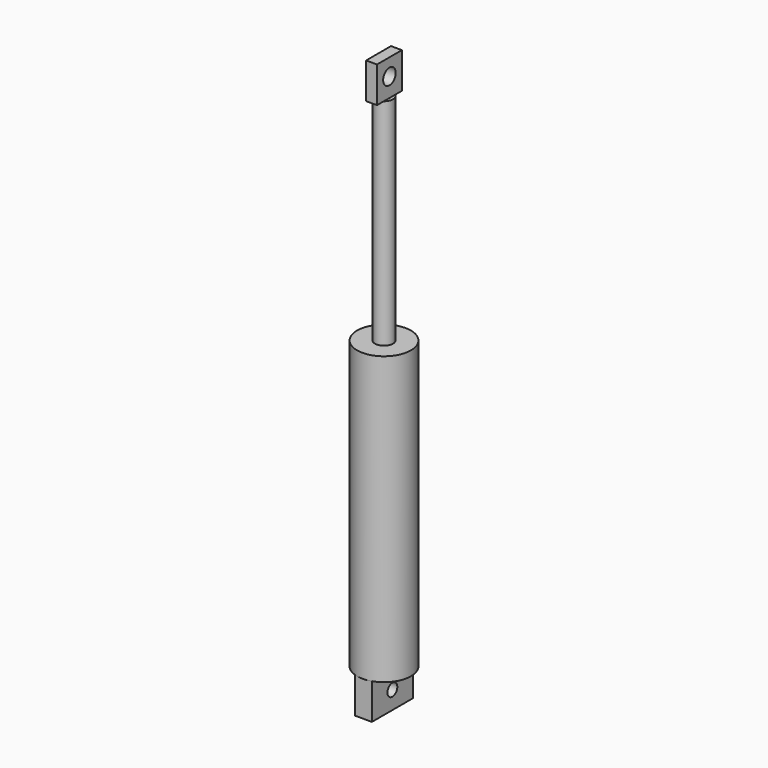
from build123d import *

# Parameters (mm, degrees)
F0_R      = 19.05
F1_DEPTH  = 203.2
F2_R      = 6.35
F3_DEPTH  = 152.4
F4_R      = 6.35
F5_DEPTH  = 152.4
F6_W      = 7.713392
F6_H      = 22.030858
F7_DEPTH  = 25.4
F8_R      = 5.550067
F9_DEPTH  = 25.4
F10_W     = 11.85033
F10_H     = 36.210216
F11_DEPTH = 25.4
F12_R     = 4.362635
F13_DEPTH = 25.4


with BuildPart() as f1:
    # F0 (on Top) → F1 (new body)
    with BuildSketch(Plane.XY):
        Circle(F0_R)
    extrude(amount=F1_DEPTH)

    # F2 (on face) → F3 (cut)
    with BuildSketch(Plane.XY.offset(203.2)):
        Circle(F2_R)
    extrude(amount=-F3_DEPTH, mode=Mode.SUBTRACT)

    # F10 (on face) → F11 (join)
    with BuildSketch(Plane(origin=(0, 0, 0), x_dir=(1, 0, 0), z_dir=(0, 0, -1))):
        Rectangle(F10_W, F10_H)
    extrude(amount=F11_DEPTH)

    # F12 (on face) → F13 (cut)
    with BuildSketch(Plane(origin=(-5.925165, 0, 0), x_dir=(0, -1, 0), z_dir=(-1, 0, 0))):
        with Locations((0, -12.7)):
            Circle(F12_R)
    extrude(amount=-F13_DEPTH, mode=Mode.SUBTRACT)


with BuildPart() as f5:
    # F4 (on face) → F5 (new body)
    with BuildSketch(Plane.XY.offset(203.2)):
        Circle(F4_R)
    extrude(amount=F5_DEPTH)

    # F6 (on face) → F7 (join)
    with BuildSketch(Plane.XY.offset(355.6)):
        Rectangle(F6_W, F6_H)
    extrude(amount=F7_DEPTH)

    # F8 (on face) → F9 (cut)
    with BuildSketch(Plane(origin=(-3.856696, 0, 0), x_dir=(0, -1, 0), z_dir=(-1, 0, 0))):
        with Locations((0, 369.046062)):
            Circle(F8_R)
    extrude(amount=-F9_DEPTH, mode=Mode.SUBTRACT)


solid = Compound([f1.part, f5.part])
